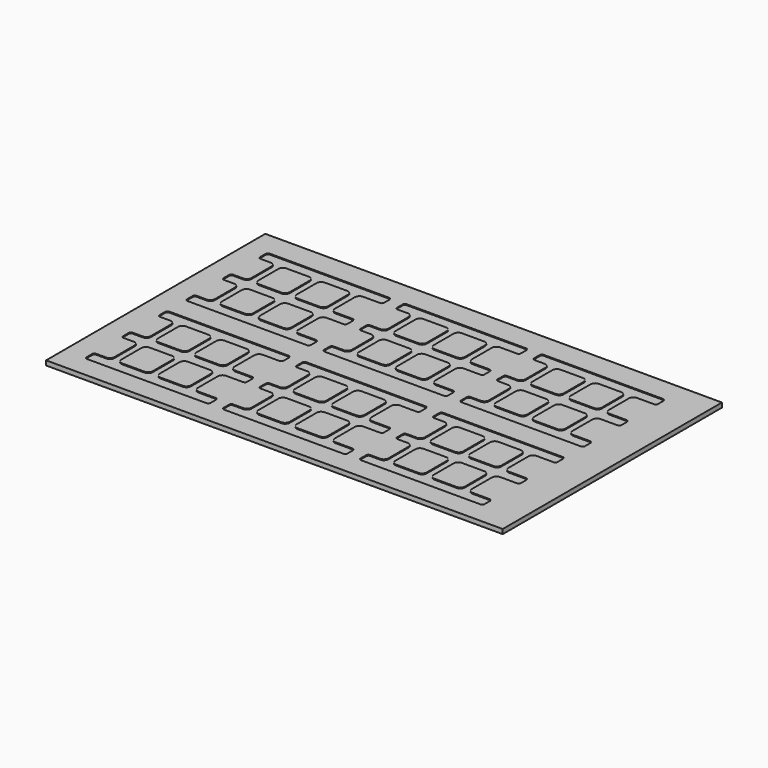
from build123d import *

# Parameters (mm, degrees)
F1_DEPTH = 0.4
F2_W     = 200
F2_H     = 120
F3_DEPTH = 2


with BuildPart() as f1:
    # F0 (on Top) → F1 (new body)
    with BuildSketch(Plane.XY):
        with BuildLine():
            ThreePointArc((20.25, 2.5), (18.835786, 3.085786), (18.25, 4.5))
            Line((18.25, 4.5), (18.25, 15.5))
            ThreePointArc((18.25, 15.5), (18.835786, 16.914214), (20.25, 17.5))
            Line((20.25, 17.5), (25.625, 17.5))
            Line((25.625, 17.5), (25.625, 22.5))
            Line((25.625, 22.5), (-24.625, 22.5))
            ThreePointArc((-24.625, 22.5), (-25.332107, 22.207107), (-25.625, 21.5))
            Line((-25.625, 21.5), (-25.625, 18.5))
            ThreePointArc((-25.625, 18.5), (-25.332107, 17.792893), (-24.625, 17.5))
            Line((-24.625, 17.5), (-20.25, 17.5))
            ThreePointArc((-20.25, 17.5), (-18.835786, 16.914214), (-18.25, 15.5))
            Line((-18.25, 15.5), (-18.25, 4.5))
            ThreePointArc((-18.25, 4.5), (-18.835786, 3.085786), (-20.25, 2.5))
            Line((-20.25, 2.5), (-24.625, 2.5))
            ThreePointArc((-24.625, 2.5), (-25.332107, 2.207107), (-25.625, 1.5))
            Line((-25.625, 1.5), (-25.625, -1.5))
            ThreePointArc((-25.625, -1.5), (-25.332107, -2.207107), (-24.625, -2.5))
            Line((-24.625, -2.5), (-20.25, -2.5))
            ThreePointArc((-20.25, -2.5), (-18.835786, -3.085786), (-18.25, -4.5))
            Line((-18.25, -4.5), (-18.25, -15.5))
            ThreePointArc((-18.25, -15.5), (-18.835786, -16.914214), (-20.25, -17.5))
            Line((-20.25, -17.5), (-24.625, -17.5))
            ThreePointArc((-24.625, -17.5), (-25.332107, -17.792893), (-25.625, -18.5))
            Line((-25.625, -18.5), (-25.625, -21.5))
            ThreePointArc((-25.625, -21.5), (-25.332107, -22.207107), (-24.625, -22.5))
            Line((-24.625, -22.5), (25.625, -22.5))
            Line((25.625, -22.5), (25.625, -17.5))
            Line((25.625, -17.5), (20.25, -17.5))
            ThreePointArc((20.25, -17.5), (18.835786, -16.914214), (18.25, -15.5))
            Line((18.25, -15.5), (18.25, -4.5))
            ThreePointArc((18.25, -4.5), (18.835786, -3.085786), (20.25, -2.5))
            Line((20.25, -2.5), (25.625, -2.5))
            Line((25.625, -2.5), (25.625, 2.5))
            Line((25.625, 2.5), (20.25, 2.5))
        make_face()
        with BuildLine():
            Line((-1.5, -4.5), (-1.5, -15.5))
            ThreePointArc((-1.5, -15.5), (-2.085786, -16.914214), (-3.5, -17.5))
            Line((-3.5, -17.5), (-13.25, -17.5))
            ThreePointArc((-13.25, -17.5), (-14.664214, -16.914214), (-15.25, -15.5))
            Line((-15.25, -15.5), (-15.25, -4.5))
            ThreePointArc((-15.25, -4.5), (-14.664214, -3.085786), (-13.25, -2.5))
            Line((-13.25, -2.5), (-3.5, -2.5))
            ThreePointArc((-3.5, -2.5), (-2.085786, -3.085786), (-1.5, -4.5))
        make_face(mode=Mode.SUBTRACT)
        with BuildLine():
            ThreePointArc((13.25, -2.5), (14.664214, -3.085786), (15.25, -4.5))
            Line((15.25, -4.5), (15.25, -15.5))
            ThreePointArc((15.25, -15.5), (14.664214, -16.914214), (13.25, -17.5))
            Line((13.25, -17.5), (3.5, -17.5))
            ThreePointArc((3.5, -17.5), (2.085786, -16.914214), (1.5, -15.5))
            Line((1.5, -15.5), (1.5, -4.5))
            ThreePointArc((1.5, -4.5), (2.085786, -3.085786), (3.5, -2.5))
            Line((3.5, -2.5), (13.25, -2.5))
        make_face(mode=Mode.SUBTRACT)
        with BuildLine():
            ThreePointArc((-1.5, 4.5), (-2.085786, 3.085786), (-3.5, 2.5))
            Line((-3.5, 2.5), (-13.25, 2.5))
            ThreePointArc((-13.25, 2.5), (-14.664214, 3.085786), (-15.25, 4.5))
            Line((-15.25, 4.5), (-15.25, 15.5))
            ThreePointArc((-15.25, 15.5), (-14.664214, 16.914214), (-13.25, 17.5))
            Line((-13.25, 17.5), (-3.5, 17.5))
            ThreePointArc((-3.5, 17.5), (-2.085786, 16.914214), (-1.5, 15.5))
            Line((-1.5, 15.5), (-1.5, 4.5))
        make_face(mode=Mode.SUBTRACT)
        with BuildLine():
            Line((15.25, 15.5), (15.25, 4.5))
            ThreePointArc((15.25, 4.5), (14.664214, 3.085786), (13.25, 2.5))
            Line((13.25, 2.5), (3.5, 2.5))
            ThreePointArc((3.5, 2.5), (2.085786, 3.085786), (1.5, 4.5))
            Line((1.5, 4.5), (1.5, 15.5))
            ThreePointArc((1.5, 15.5), (2.085786, 16.914214), (3.5, 17.5))
            Line((3.5, 17.5), (13.25, 17.5))
            ThreePointArc((13.25, 17.5), (14.664214, 16.914214), (15.25, 15.5))
        make_face(mode=Mode.SUBTRACT)
        with BuildLine():
            Line((27.625, 2.5), (25.625, 2.5))
            Line((25.625, 2.5), (25.625, -2.5))
            Line((25.625, -2.5), (27.625, -2.5))
            ThreePointArc((27.625, -2.5), (28.332107, -2.207107), (28.625, -1.5))
            Line((28.625, -1.5), (28.625, 1.5))
            ThreePointArc((28.625, 1.5), (28.332107, 2.207107), (27.625, 2.5))
        make_face()
        with BuildLine():
            Line((25.625, 22.5), (25.625, 17.5))
            Line((25.625, 17.5), (27.625, 17.5))
            ThreePointArc((27.625, 17.5), (28.332107, 17.792893), (28.625, 18.5))
            Line((28.625, 18.5), (28.625, 21.5))
            ThreePointArc((28.625, 21.5), (28.332107, 22.207107), (27.625, 22.5))
            Line((27.625, 22.5), (25.625, 22.5))
        make_face()
        with BuildLine():
            Line((27.625, -17.5), (25.625, -17.5))
            Line((25.625, -17.5), (25.625, -22.5))
            Line((25.625, -22.5), (27.625, -22.5))
            ThreePointArc((27.625, -22.5), (28.332107, -22.207107), (28.625, -21.5))
            Line((28.625, -21.5), (28.625, -18.5))
            ThreePointArc((28.625, -18.5), (28.332107, -17.792893), (27.625, -17.5))
        make_face()
        with BuildLine():
            Line((25.625, 72.5), (25.625, 77.5))
            Line((25.625, 77.5), (-24.625, 77.5))
            ThreePointArc((-24.625, 77.5), (-25.332107, 77.207107), (-25.625, 76.5))
            Line((-25.625, 76.5), (-25.625, 73.5))
            ThreePointArc((-25.625, 73.5), (-25.332107, 72.792893), (-24.625, 72.5))
            Line((-24.625, 72.5), (-20.25, 72.5))
            ThreePointArc((-20.25, 72.5), (-18.835786, 71.914214), (-18.25, 70.5))
            Line((-18.25, 70.5), (-18.25, 59.5))
            ThreePointArc((-18.25, 59.5), (-18.835786, 58.085786), (-20.25, 57.5))
            Line((-20.25, 57.5), (-24.625, 57.5))
            ThreePointArc((-24.625, 57.5), (-25.332107, 57.207107), (-25.625, 56.5))
            Line((-25.625, 56.5), (-25.625, 53.5))
            ThreePointArc((-25.625, 53.5), (-25.332107, 52.792893), (-24.625, 52.5))
            Line((-24.625, 52.5), (-20.25, 52.5))
            ThreePointArc((-20.25, 52.5), (-18.835786, 51.914214), (-18.25, 50.5))
            Line((-18.25, 50.5), (-18.25, 39.5))
            ThreePointArc((-18.25, 39.5), (-18.835786, 38.085786), (-20.25, 37.5))
            Line((-20.25, 37.5), (-24.625, 37.5))
            ThreePointArc((-24.625, 37.5), (-25.332107, 37.207107), (-25.625, 36.5))
            Line((-25.625, 36.5), (-25.625, 33.5))
            ThreePointArc((-25.625, 33.5), (-25.332107, 32.792893), (-24.625, 32.5))
            Line((-24.625, 32.5), (25.625, 32.5))
            Line((25.625, 32.5), (25.625, 37.5))
            Line((25.625, 37.5), (20.25, 37.5))
            ThreePointArc((20.25, 37.5), (18.835786, 38.085786), (18.25, 39.5))
            Line((18.25, 39.5), (18.25, 50.5))
            ThreePointArc((18.25, 50.5), (18.835786, 51.914214), (20.25, 52.5))
            Line((20.25, 52.5), (25.625, 52.5))
            Line((25.625, 52.5), (25.625, 57.5))
            Line((25.625, 57.5), (20.25, 57.5))
            ThreePointArc((20.25, 57.5), (18.835786, 58.085786), (18.25, 59.5))
            Line((18.25, 59.5), (18.25, 70.5))
            ThreePointArc((18.25, 70.5), (18.835786, 71.914214), (20.25, 72.5))
            Line((20.25, 72.5), (25.625, 72.5))
        make_face()
        with BuildLine():
            Line((-15.25, 39.5), (-15.25, 50.5))
            ThreePointArc((-15.25, 50.5), (-14.664214, 51.914214), (-13.25, 52.5))
            Line((-13.25, 52.5), (-3.5, 52.5))
            ThreePointArc((-3.5, 52.5), (-2.085786, 51.914214), (-1.5, 50.5))
            Line((-1.5, 50.5), (-1.5, 39.5))
            ThreePointArc((-1.5, 39.5), (-2.085786, 38.085786), (-3.5, 37.5))
            Line((-3.5, 37.5), (-13.25, 37.5))
            ThreePointArc((-13.25, 37.5), (-14.664214, 38.085786), (-15.25, 39.5))
        make_face(mode=Mode.SUBTRACT)
        with BuildLine():
            Line((1.5, 39.5), (1.5, 50.5))
            ThreePointArc((1.5, 50.5), (2.085786, 51.914214), (3.5, 52.5))
            Line((3.5, 52.5), (13.25, 52.5))
            ThreePointArc((13.25, 52.5), (14.664214, 51.914214), (15.25, 50.5))
            Line((15.25, 50.5), (15.25, 39.5))
            ThreePointArc((15.25, 39.5), (14.664214, 38.085786), (13.25, 37.5))
            Line((13.25, 37.5), (3.5, 37.5))
            ThreePointArc((3.5, 37.5), (2.085786, 38.085786), (1.5, 39.5))
        make_face(mode=Mode.SUBTRACT)
        with BuildLine():
            Line((-1.5, 70.5), (-1.5, 59.5))
            ThreePointArc((-1.5, 59.5), (-2.085786, 58.085786), (-3.5, 57.5))
            Line((-3.5, 57.5), (-13.25, 57.5))
            ThreePointArc((-13.25, 57.5), (-14.664214, 58.085786), (-15.25, 59.5))
            Line((-15.25, 59.5), (-15.25, 70.5))
            ThreePointArc((-15.25, 70.5), (-14.664214, 71.914214), (-13.25, 72.5))
            Line((-13.25, 72.5), (-3.5, 72.5))
            ThreePointArc((-3.5, 72.5), (-2.085786, 71.914214), (-1.5, 70.5))
        make_face(mode=Mode.SUBTRACT)
        with BuildLine():
            ThreePointArc((3.5, 57.5), (2.085786, 58.085786), (1.5, 59.5))
            Line((1.5, 59.5), (1.5, 70.5))
            ThreePointArc((1.5, 70.5), (2.085786, 71.914214), (3.5, 72.5))
            Line((3.5, 72.5), (13.25, 72.5))
            ThreePointArc((13.25, 72.5), (14.664214, 71.914214), (15.25, 70.5))
            Line((15.25, 70.5), (15.25, 59.5))
            ThreePointArc((15.25, 59.5), (14.664214, 58.085786), (13.25, 57.5))
            Line((13.25, 57.5), (3.5, 57.5))
        make_face(mode=Mode.SUBTRACT)
        with BuildLine():
            Line((27.625, 77.5), (25.625, 77.5))
            Line((25.625, 77.5), (25.625, 72.5))
            Line((25.625, 72.5), (27.625, 72.5))
            ThreePointArc((27.625, 72.5), (28.332107, 72.792893), (28.625, 73.5))
            Line((28.625, 73.5), (28.625, 76.5))
            ThreePointArc((28.625, 76.5), (28.332107, 77.207107), (27.625, 77.5))
        make_face()
        with BuildLine():
            Line((27.625, 57.5), (25.625, 57.5))
            Line((25.625, 57.5), (25.625, 52.5))
            Line((25.625, 52.5), (27.625, 52.5))
            ThreePointArc((27.625, 52.5), (28.332107, 52.792893), (28.625, 53.5))
            Line((28.625, 53.5), (28.625, 56.5))
            ThreePointArc((28.625, 56.5), (28.332107, 57.207107), (27.625, 57.5))
        make_face()
        with BuildLine():
            Line((27.625, 37.5), (25.625, 37.5))
            Line((25.625, 37.5), (25.625, 32.5))
            Line((25.625, 32.5), (27.625, 32.5))
            ThreePointArc((27.625, 32.5), (28.332107, 32.792893), (28.625, 33.5))
            Line((28.625, 33.5), (28.625, 36.5))
            ThreePointArc((28.625, 36.5), (28.332107, 37.207107), (27.625, 37.5))
        make_face()
        with BuildLine():
            Line((85.625, 17.5), (85.625, 22.5))
            Line((85.625, 22.5), (35.375, 22.5))
            ThreePointArc((35.375, 22.5), (34.667893, 22.207107), (34.375, 21.5))
            Line((34.375, 21.5), (34.375, 18.5))
            ThreePointArc((34.375, 18.5), (34.667893, 17.792893), (35.375, 17.5))
            Line((35.375, 17.5), (39.75, 17.5))
            ThreePointArc((39.75, 17.5), (41.164214, 16.914214), (41.75, 15.5))
            Line((41.75, 15.5), (41.75, 4.5))
            ThreePointArc((41.75, 4.5), (41.164214, 3.085786), (39.75, 2.5))
            Line((39.75, 2.5), (35.375, 2.5))
            ThreePointArc((35.375, 2.5), (34.667893, 2.207107), (34.375, 1.5))
            Line((34.375, 1.5), (34.375, -1.5))
            ThreePointArc((34.375, -1.5), (34.667893, -2.207107), (35.375, -2.5))
            Line((35.375, -2.5), (39.75, -2.5))
            ThreePointArc((39.75, -2.5), (41.164214, -3.085786), (41.75, -4.5))
            Line((41.75, -4.5), (41.75, -15.5))
            ThreePointArc((41.75, -15.5), (41.164214, -16.914214), (39.75, -17.5))
            Line((39.75, -17.5), (35.375, -17.5))
            ThreePointArc((35.375, -17.5), (34.667893, -17.792893), (34.375, -18.5))
            Line((34.375, -18.5), (34.375, -21.5))
            ThreePointArc((34.375, -21.5), (34.667893, -22.207107), (35.375, -22.5))
            Line((35.375, -22.5), (85.625, -22.5))
            Line((85.625, -22.5), (85.625, -17.5))
            Line((85.625, -17.5), (80.25, -17.5))
            ThreePointArc((80.25, -17.5), (78.835786, -16.914214), (78.25, -15.5))
            Line((78.25, -15.5), (78.25, -4.5))
            ThreePointArc((78.25, -4.5), (78.835786, -3.085786), (80.25, -2.5))
            Line((80.25, -2.5), (85.625, -2.5))
            Line((85.625, -2.5), (85.625, 2.5))
            Line((85.625, 2.5), (80.25, 2.5))
            ThreePointArc((80.25, 2.5), (78.835786, 3.085786), (78.25, 4.5))
            Line((78.25, 4.5), (78.25, 15.5))
            ThreePointArc((78.25, 15.5), (78.835786, 16.914214), (80.25, 17.5))
            Line((80.25, 17.5), (85.625, 17.5))
        make_face()
        with BuildLine():
            Line((44.75, -15.5), (44.75, -4.5))
            ThreePointArc((44.75, -4.5), (45.335786, -3.085786), (46.75, -2.5))
            Line((46.75, -2.5), (56.5, -2.5))
            ThreePointArc((56.5, -2.5), (57.914214, -3.085786), (58.5, -4.5))
            Line((58.5, -4.5), (58.5, -15.5))
            ThreePointArc((58.5, -15.5), (57.914214, -16.914214), (56.5, -17.5))
            Line((56.5, -17.5), (46.75, -17.5))
            ThreePointArc((46.75, -17.5), (45.335786, -16.914214), (44.75, -15.5))
        make_face(mode=Mode.SUBTRACT)
        with BuildLine():
            Line((58.5, 15.5), (58.5, 4.5))
            ThreePointArc((58.5, 4.5), (57.914214, 3.085786), (56.5, 2.5))
            Line((56.5, 2.5), (46.75, 2.5))
            ThreePointArc((46.75, 2.5), (45.335786, 3.085786), (44.75, 4.5))
            Line((44.75, 4.5), (44.75, 15.5))
            ThreePointArc((44.75, 15.5), (45.335786, 16.914214), (46.75, 17.5))
            Line((46.75, 17.5), (56.5, 17.5))
            ThreePointArc((56.5, 17.5), (57.914214, 16.914214), (58.5, 15.5))
        make_face(mode=Mode.SUBTRACT)
        with BuildLine():
            Line((61.5, -15.5), (61.5, -4.5))
            ThreePointArc((61.5, -4.5), (62.085786, -3.085786), (63.5, -2.5))
            Line((63.5, -2.5), (73.25, -2.5))
            ThreePointArc((73.25, -2.5), (74.664214, -3.085786), (75.25, -4.5))
            Line((75.25, -4.5), (75.25, -15.5))
            ThreePointArc((75.25, -15.5), (74.664214, -16.914214), (73.25, -17.5))
            Line((73.25, -17.5), (63.5, -17.5))
            ThreePointArc((63.5, -17.5), (62.085786, -16.914214), (61.5, -15.5))
        make_face(mode=Mode.SUBTRACT)
        with BuildLine():
            ThreePointArc((63.5, 2.5), (62.085786, 3.085786), (61.5, 4.5))
            Line((61.5, 4.5), (61.5, 15.5))
            ThreePointArc((61.5, 15.5), (62.085786, 16.914214), (63.5, 17.5))
            Line((63.5, 17.5), (73.25, 17.5))
            ThreePointArc((73.25, 17.5), (74.664214, 16.914214), (75.25, 15.5))
            Line((75.25, 15.5), (75.25, 4.5))
            ThreePointArc((75.25, 4.5), (74.664214, 3.085786), (73.25, 2.5))
            Line((73.25, 2.5), (63.5, 2.5))
        make_face(mode=Mode.SUBTRACT)
        with BuildLine():
            Line((87.625, 22.5), (85.625, 22.5))
            Line((85.625, 22.5), (85.625, 17.5))
            Line((85.625, 17.5), (87.625, 17.5))
            ThreePointArc((87.625, 17.5), (88.332107, 17.792893), (88.625, 18.5))
            Line((88.625, 18.5), (88.625, 21.5))
            ThreePointArc((88.625, 21.5), (88.332107, 22.207107), (87.625, 22.5))
        make_face()
        with BuildLine():
            Line((87.625, 2.5), (85.625, 2.5))
            Line((85.625, 2.5), (85.625, -2.5))
            Line((85.625, -2.5), (87.625, -2.5))
            ThreePointArc((87.625, -2.5), (88.332107, -2.207107), (88.625, -1.5))
            Line((88.625, -1.5), (88.625, 1.5))
            ThreePointArc((88.625, 1.5), (88.332107, 2.207107), (87.625, 2.5))
        make_face()
        with BuildLine():
            Line((87.625, -17.5), (85.625, -17.5))
            Line((85.625, -17.5), (85.625, -22.5))
            Line((85.625, -22.5), (87.625, -22.5))
            ThreePointArc((87.625, -22.5), (88.332107, -22.207107), (88.625, -21.5))
            Line((88.625, -21.5), (88.625, -18.5))
            ThreePointArc((88.625, -18.5), (88.332107, -17.792893), (87.625, -17.5))
        make_face()
        with BuildLine():
            Line((85.625, 72.5), (85.625, 77.5))
            Line((85.625, 77.5), (35.375, 77.5))
            ThreePointArc((35.375, 77.5), (34.667893, 77.207107), (34.375, 76.5))
            Line((34.375, 76.5), (34.375, 73.5))
            ThreePointArc((34.375, 73.5), (34.667893, 72.792893), (35.375, 72.5))
            Line((35.375, 72.5), (39.75, 72.5))
            ThreePointArc((39.75, 72.5), (41.164214, 71.914214), (41.75, 70.5))
            Line((41.75, 70.5), (41.75, 59.5))
            ThreePointArc((41.75, 59.5), (41.164214, 58.085786), (39.75, 57.5))
            Line((39.75, 57.5), (35.375, 57.5))
            ThreePointArc((35.375, 57.5), (34.667893, 57.207107), (34.375, 56.5))
            Line((34.375, 56.5), (34.375, 53.5))
            ThreePointArc((34.375, 53.5), (34.667893, 52.792893), (35.375, 52.5))
            Line((35.375, 52.5), (39.75, 52.5))
            ThreePointArc((39.75, 52.5), (41.164214, 51.914214), (41.75, 50.5))
            Line((41.75, 50.5), (41.75, 39.5))
            ThreePointArc((41.75, 39.5), (41.164214, 38.085786), (39.75, 37.5))
            Line((39.75, 37.5), (35.375, 37.5))
            ThreePointArc((35.375, 37.5), (34.667893, 37.207107), (34.375, 36.5))
            Line((34.375, 36.5), (34.375, 33.5))
            ThreePointArc((34.375, 33.5), (34.667893, 32.792893), (35.375, 32.5))
            Line((35.375, 32.5), (85.625, 32.5))
            Line((85.625, 32.5), (85.625, 37.5))
            Line((85.625, 37.5), (80.25, 37.5))
            ThreePointArc((80.25, 37.5), (78.835786, 38.085786), (78.25, 39.5))
            Line((78.25, 39.5), (78.25, 50.5))
            ThreePointArc((78.25, 50.5), (78.835786, 51.914214), (80.25, 52.5))
            Line((80.25, 52.5), (85.625, 52.5))
            Line((85.625, 52.5), (85.625, 57.5))
            Line((85.625, 57.5), (80.25, 57.5))
            ThreePointArc((80.25, 57.5), (78.835786, 58.085786), (78.25, 59.5))
            Line((78.25, 59.5), (78.25, 70.5))
            ThreePointArc((78.25, 70.5), (78.835786, 71.914214), (80.25, 72.5))
            Line((80.25, 72.5), (85.625, 72.5))
        make_face()
        with BuildLine():
            Line((44.75, 39.5), (44.75, 50.5))
            ThreePointArc((44.75, 50.5), (45.335786, 51.914214), (46.75, 52.5))
            Line((46.75, 52.5), (56.5, 52.5))
            ThreePointArc((56.5, 52.5), (57.914214, 51.914214), (58.5, 50.5))
            Line((58.5, 50.5), (58.5, 39.5))
            ThreePointArc((58.5, 39.5), (57.914214, 38.085786), (56.5, 37.5))
            Line((56.5, 37.5), (46.75, 37.5))
            ThreePointArc((46.75, 37.5), (45.335786, 38.085786), (44.75, 39.5))
        make_face(mode=Mode.SUBTRACT)
        with BuildLine():
            Line((58.5, 70.5), (58.5, 59.5))
            ThreePointArc((58.5, 59.5), (57.914214, 58.085786), (56.5, 57.5))
            Line((56.5, 57.5), (46.75, 57.5))
            ThreePointArc((46.75, 57.5), (45.335786, 58.085786), (44.75, 59.5))
            Line((44.75, 59.5), (44.75, 70.5))
            ThreePointArc((44.75, 70.5), (45.335786, 71.914214), (46.75, 72.5))
            Line((46.75, 72.5), (56.5, 72.5))
            ThreePointArc((56.5, 72.5), (57.914214, 71.914214), (58.5, 70.5))
        make_face(mode=Mode.SUBTRACT)
        with BuildLine():
            Line((61.5, 39.5), (61.5, 50.5))
            ThreePointArc((61.5, 50.5), (62.085786, 51.914214), (63.5, 52.5))
            Line((63.5, 52.5), (73.25, 52.5))
            ThreePointArc((73.25, 52.5), (74.664214, 51.914214), (75.25, 50.5))
            Line((75.25, 50.5), (75.25, 39.5))
            ThreePointArc((75.25, 39.5), (74.664214, 38.085786), (73.25, 37.5))
            Line((73.25, 37.5), (63.5, 37.5))
            ThreePointArc((63.5, 37.5), (62.085786, 38.085786), (61.5, 39.5))
        make_face(mode=Mode.SUBTRACT)
        with BuildLine():
            ThreePointArc((63.5, 57.5), (62.085786, 58.085786), (61.5, 59.5))
            Line((61.5, 59.5), (61.5, 70.5))
            ThreePointArc((61.5, 70.5), (62.085786, 71.914214), (63.5, 72.5))
            Line((63.5, 72.5), (73.25, 72.5))
            ThreePointArc((73.25, 72.5), (74.664214, 71.914214), (75.25, 70.5))
            Line((75.25, 70.5), (75.25, 59.5))
            ThreePointArc((75.25, 59.5), (74.664214, 58.085786), (73.25, 57.5))
            Line((73.25, 57.5), (63.5, 57.5))
        make_face(mode=Mode.SUBTRACT)
        with BuildLine():
            Line((87.625, 77.5), (85.625, 77.5))
            Line((85.625, 77.5), (85.625, 72.5))
            Line((85.625, 72.5), (87.625, 72.5))
            ThreePointArc((87.625, 72.5), (88.332107, 72.792893), (88.625, 73.5))
            Line((88.625, 73.5), (88.625, 76.5))
            ThreePointArc((88.625, 76.5), (88.332107, 77.207107), (87.625, 77.5))
        make_face()
        with BuildLine():
            Line((87.625, 57.5), (85.625, 57.5))
            Line((85.625, 57.5), (85.625, 52.5))
            Line((85.625, 52.5), (87.625, 52.5))
            ThreePointArc((87.625, 52.5), (88.332107, 52.792893), (88.625, 53.5))
            Line((88.625, 53.5), (88.625, 56.5))
            ThreePointArc((88.625, 56.5), (88.332107, 57.207107), (87.625, 57.5))
        make_face()
        with BuildLine():
            Line((87.625, 37.5), (85.625, 37.5))
            Line((85.625, 37.5), (85.625, 32.5))
            Line((85.625, 32.5), (87.625, 32.5))
            ThreePointArc((87.625, 32.5), (88.332107, 32.792893), (88.625, 33.5))
            Line((88.625, 33.5), (88.625, 36.5))
            ThreePointArc((88.625, 36.5), (88.332107, 37.207107), (87.625, 37.5))
        make_face()
        with BuildLine():
            Line((145.625, 17.5), (145.625, 22.5))
            Line((145.625, 22.5), (95.375, 22.5))
            ThreePointArc((95.375, 22.5), (94.667893, 22.207107), (94.375, 21.5))
            Line((94.375, 21.5), (94.375, 18.5))
            ThreePointArc((94.375, 18.5), (94.667893, 17.792893), (95.375, 17.5))
            Line((95.375, 17.5), (99.75, 17.5))
            ThreePointArc((99.75, 17.5), (101.164214, 16.914214), (101.75, 15.5))
            Line((101.75, 15.5), (101.75, 4.5))
            ThreePointArc((101.75, 4.5), (101.164214, 3.085786), (99.75, 2.5))
            Line((99.75, 2.5), (95.375, 2.5))
            ThreePointArc((95.375, 2.5), (94.667893, 2.207107), (94.375, 1.5))
            Line((94.375, 1.5), (94.375, -1.5))
            ThreePointArc((94.375, -1.5), (94.667893, -2.207107), (95.375, -2.5))
            Line((95.375, -2.5), (99.75, -2.5))
            ThreePointArc((99.75, -2.5), (101.164214, -3.085786), (101.75, -4.5))
            Line((101.75, -4.5), (101.75, -15.5))
            ThreePointArc((101.75, -15.5), (101.164214, -16.914214), (99.75, -17.5))
            Line((99.75, -17.5), (95.375, -17.5))
            ThreePointArc((95.375, -17.5), (94.667893, -17.792893), (94.375, -18.5))
            Line((94.375, -18.5), (94.375, -21.5))
            ThreePointArc((94.375, -21.5), (94.667893, -22.207107), (95.375, -22.5))
            Line((95.375, -22.5), (145.625, -22.5))
            Line((145.625, -22.5), (145.625, -17.5))
            Line((145.625, -17.5), (140.25, -17.5))
            ThreePointArc((140.25, -17.5), (138.835786, -16.914214), (138.25, -15.5))
            Line((138.25, -15.5), (138.25, -4.5))
            ThreePointArc((138.25, -4.5), (138.835786, -3.085786), (140.25, -2.5))
            Line((140.25, -2.5), (145.625, -2.5))
            Line((145.625, -2.5), (145.625, 2.5))
            Line((145.625, 2.5), (140.25, 2.5))
            ThreePointArc((140.25, 2.5), (138.835786, 3.085786), (138.25, 4.5))
            Line((138.25, 4.5), (138.25, 15.5))
            ThreePointArc((138.25, 15.5), (138.835786, 16.914214), (140.25, 17.5))
            Line((140.25, 17.5), (145.625, 17.5))
        make_face()
        with BuildLine():
            Line((104.75, -15.5), (104.75, -4.5))
            ThreePointArc((104.75, -4.5), (105.335786, -3.085786), (106.75, -2.5))
            Line((106.75, -2.5), (116.5, -2.5))
            ThreePointArc((116.5, -2.5), (117.914214, -3.085786), (118.5, -4.5))
            Line((118.5, -4.5), (118.5, -15.5))
            ThreePointArc((118.5, -15.5), (117.914214, -16.914214), (116.5, -17.5))
            Line((116.5, -17.5), (106.75, -17.5))
            ThreePointArc((106.75, -17.5), (105.335786, -16.914214), (104.75, -15.5))
        make_face(mode=Mode.SUBTRACT)
        with BuildLine():
            Line((121.5, -15.5), (121.5, -4.5))
            ThreePointArc((121.5, -4.5), (122.085786, -3.085786), (123.5, -2.5))
            Line((123.5, -2.5), (133.25, -2.5))
            ThreePointArc((133.25, -2.5), (134.664214, -3.085786), (135.25, -4.5))
            Line((135.25, -4.5), (135.25, -15.5))
            ThreePointArc((135.25, -15.5), (134.664214, -16.914214), (133.25, -17.5))
            Line((133.25, -17.5), (123.5, -17.5))
            ThreePointArc((123.5, -17.5), (122.085786, -16.914214), (121.5, -15.5))
        make_face(mode=Mode.SUBTRACT)
        with BuildLine():
            Line((118.5, 15.5), (118.5, 4.5))
            ThreePointArc((118.5, 4.5), (117.914214, 3.085786), (116.5, 2.5))
            Line((116.5, 2.5), (106.75, 2.5))
            ThreePointArc((106.75, 2.5), (105.335786, 3.085786), (104.75, 4.5))
            Line((104.75, 4.5), (104.75, 15.5))
            ThreePointArc((104.75, 15.5), (105.335786, 16.914214), (106.75, 17.5))
            Line((106.75, 17.5), (116.5, 17.5))
            ThreePointArc((116.5, 17.5), (117.914214, 16.914214), (118.5, 15.5))
        make_face(mode=Mode.SUBTRACT)
        with BuildLine():
            ThreePointArc((123.5, 2.5), (122.085786, 3.085786), (121.5, 4.5))
            Line((121.5, 4.5), (121.5, 15.5))
            ThreePointArc((121.5, 15.5), (122.085786, 16.914214), (123.5, 17.5))
            Line((123.5, 17.5), (133.25, 17.5))
            ThreePointArc((133.25, 17.5), (134.664214, 16.914214), (135.25, 15.5))
            Line((135.25, 15.5), (135.25, 4.5))
            ThreePointArc((135.25, 4.5), (134.664214, 3.085786), (133.25, 2.5))
            Line((133.25, 2.5), (123.5, 2.5))
        make_face(mode=Mode.SUBTRACT)
        with BuildLine():
            Line((147.625, 22.5), (145.625, 22.5))
            Line((145.625, 22.5), (145.625, 17.5))
            Line((145.625, 17.5), (147.625, 17.5))
            ThreePointArc((147.625, 17.5), (148.332107, 17.792893), (148.625, 18.5))
            Line((148.625, 18.5), (148.625, 21.5))
            ThreePointArc((148.625, 21.5), (148.332107, 22.207107), (147.625, 22.5))
        make_face()
        with BuildLine():
            Line((147.625, 2.5), (145.625, 2.5))
            Line((145.625, 2.5), (145.625, -2.5))
            Line((145.625, -2.5), (147.625, -2.5))
            ThreePointArc((147.625, -2.5), (148.332107, -2.207107), (148.625, -1.5))
            Line((148.625, -1.5), (148.625, 1.5))
            ThreePointArc((148.625, 1.5), (148.332107, 2.207107), (147.625, 2.5))
        make_face()
        with BuildLine():
            Line((147.625, -17.5), (145.625, -17.5))
            Line((145.625, -17.5), (145.625, -22.5))
            Line((145.625, -22.5), (147.625, -22.5))
            ThreePointArc((147.625, -22.5), (148.332107, -22.207107), (148.625, -21.5))
            Line((148.625, -21.5), (148.625, -18.5))
            ThreePointArc((148.625, -18.5), (148.332107, -17.792893), (147.625, -17.5))
        make_face()
        with BuildLine():
            Line((145.625, 72.5), (145.625, 77.5))
            Line((145.625, 77.5), (95.375, 77.5))
            ThreePointArc((95.375, 77.5), (94.667893, 77.207107), (94.375, 76.5))
            Line((94.375, 76.5), (94.375, 73.5))
            ThreePointArc((94.375, 73.5), (94.667893, 72.792893), (95.375, 72.5))
            Line((95.375, 72.5), (99.75, 72.5))
            ThreePointArc((99.75, 72.5), (101.164214, 71.914214), (101.75, 70.5))
            Line((101.75, 70.5), (101.75, 59.5))
            ThreePointArc((101.75, 59.5), (101.164214, 58.085786), (99.75, 57.5))
            Line((99.75, 57.5), (95.375, 57.5))
            ThreePointArc((95.375, 57.5), (94.667893, 57.207107), (94.375, 56.5))
            Line((94.375, 56.5), (94.375, 53.5))
            ThreePointArc((94.375, 53.5), (94.667893, 52.792893), (95.375, 52.5))
            Line((95.375, 52.5), (99.75, 52.5))
            ThreePointArc((99.75, 52.5), (101.164214, 51.914214), (101.75, 50.5))
            Line((101.75, 50.5), (101.75, 39.5))
            ThreePointArc((101.75, 39.5), (101.164214, 38.085786), (99.75, 37.5))
            Line((99.75, 37.5), (95.375, 37.5))
            ThreePointArc((95.375, 37.5), (94.667893, 37.207107), (94.375, 36.5))
            Line((94.375, 36.5), (94.375, 33.5))
            ThreePointArc((94.375, 33.5), (94.667893, 32.792893), (95.375, 32.5))
            Line((95.375, 32.5), (145.625, 32.5))
            Line((145.625, 32.5), (145.625, 37.5))
            Line((145.625, 37.5), (140.25, 37.5))
            ThreePointArc((140.25, 37.5), (138.835786, 38.085786), (138.25, 39.5))
            Line((138.25, 39.5), (138.25, 50.5))
            ThreePointArc((138.25, 50.5), (138.835786, 51.914214), (140.25, 52.5))
            Line((140.25, 52.5), (145.625, 52.5))
            Line((145.625, 52.5), (145.625, 57.5))
            Line((145.625, 57.5), (140.25, 57.5))
            ThreePointArc((140.25, 57.5), (138.835786, 58.085786), (138.25, 59.5))
            Line((138.25, 59.5), (138.25, 70.5))
            ThreePointArc((138.25, 70.5), (138.835786, 71.914214), (140.25, 72.5))
            Line((140.25, 72.5), (145.625, 72.5))
        make_face()
        with BuildLine():
            Line((104.75, 39.5), (104.75, 50.5))
            ThreePointArc((104.75, 50.5), (105.335786, 51.914214), (106.75, 52.5))
            Line((106.75, 52.5), (116.5, 52.5))
            ThreePointArc((116.5, 52.5), (117.914214, 51.914214), (118.5, 50.5))
            Line((118.5, 50.5), (118.5, 39.5))
            ThreePointArc((118.5, 39.5), (117.914214, 38.085786), (116.5, 37.5))
            Line((116.5, 37.5), (106.75, 37.5))
            ThreePointArc((106.75, 37.5), (105.335786, 38.085786), (104.75, 39.5))
        make_face(mode=Mode.SUBTRACT)
        with BuildLine():
            Line((121.5, 39.5), (121.5, 50.5))
            ThreePointArc((121.5, 50.5), (122.085786, 51.914214), (123.5, 52.5))
            Line((123.5, 52.5), (133.25, 52.5))
            ThreePointArc((133.25, 52.5), (134.664214, 51.914214), (135.25, 50.5))
            Line((135.25, 50.5), (135.25, 39.5))
            ThreePointArc((135.25, 39.5), (134.664214, 38.085786), (133.25, 37.5))
            Line((133.25, 37.5), (123.5, 37.5))
            ThreePointArc((123.5, 37.5), (122.085786, 38.085786), (121.5, 39.5))
        make_face(mode=Mode.SUBTRACT)
        with BuildLine():
            Line((118.5, 70.5), (118.5, 59.5))
            ThreePointArc((118.5, 59.5), (117.914214, 58.085786), (116.5, 57.5))
            Line((116.5, 57.5), (106.75, 57.5))
            ThreePointArc((106.75, 57.5), (105.335786, 58.085786), (104.75, 59.5))
            Line((104.75, 59.5), (104.75, 70.5))
            ThreePointArc((104.75, 70.5), (105.335786, 71.914214), (106.75, 72.5))
            Line((106.75, 72.5), (116.5, 72.5))
            ThreePointArc((116.5, 72.5), (117.914214, 71.914214), (118.5, 70.5))
        make_face(mode=Mode.SUBTRACT)
        with BuildLine():
            ThreePointArc((123.5, 57.5), (122.085786, 58.085786), (121.5, 59.5))
            Line((121.5, 59.5), (121.5, 70.5))
            ThreePointArc((121.5, 70.5), (122.085786, 71.914214), (123.5, 72.5))
            Line((123.5, 72.5), (133.25, 72.5))
            ThreePointArc((133.25, 72.5), (134.664214, 71.914214), (135.25, 70.5))
            Line((135.25, 70.5), (135.25, 59.5))
            ThreePointArc((135.25, 59.5), (134.664214, 58.085786), (133.25, 57.5))
            Line((133.25, 57.5), (123.5, 57.5))
        make_face(mode=Mode.SUBTRACT)
        with BuildLine():
            Line((147.625, 77.5), (145.625, 77.5))
            Line((145.625, 77.5), (145.625, 72.5))
            Line((145.625, 72.5), (147.625, 72.5))
            ThreePointArc((147.625, 72.5), (148.332107, 72.792893), (148.625, 73.5))
            Line((148.625, 73.5), (148.625, 76.5))
            ThreePointArc((148.625, 76.5), (148.332107, 77.207107), (147.625, 77.5))
        make_face()
        with BuildLine():
            Line((147.625, 57.5), (145.625, 57.5))
            Line((145.625, 57.5), (145.625, 52.5))
            Line((145.625, 52.5), (147.625, 52.5))
            ThreePointArc((147.625, 52.5), (148.332107, 52.792893), (148.625, 53.5))
            Line((148.625, 53.5), (148.625, 56.5))
            ThreePointArc((148.625, 56.5), (148.332107, 57.207107), (147.625, 57.5))
        make_face()
        with BuildLine():
            Line((147.625, 37.5), (145.625, 37.5))
            Line((145.625, 37.5), (145.625, 32.5))
            Line((145.625, 32.5), (147.625, 32.5))
            ThreePointArc((147.625, 32.5), (148.332107, 32.792893), (148.625, 33.5))
            Line((148.625, 33.5), (148.625, 36.5))
            ThreePointArc((148.625, 36.5), (148.332107, 37.207107), (147.625, 37.5))
        make_face()
    extrude(amount=F1_DEPTH)


with BuildPart() as f3:
    # F2 (on Top) → F3 (new body)
    with BuildSketch(Plane.XY):
        with Locations((65, 28)):
            Rectangle(F2_W, F2_H)
    extrude(amount=-F3_DEPTH)


with BuildPart() as f3_1:
    # F4: moved
    add(f3.part.moved(Location((0, 0, 0.4))))

    # F5: cut F1
    add(f1.part, mode=Mode.SUBTRACT)


solid = f3_1.part
